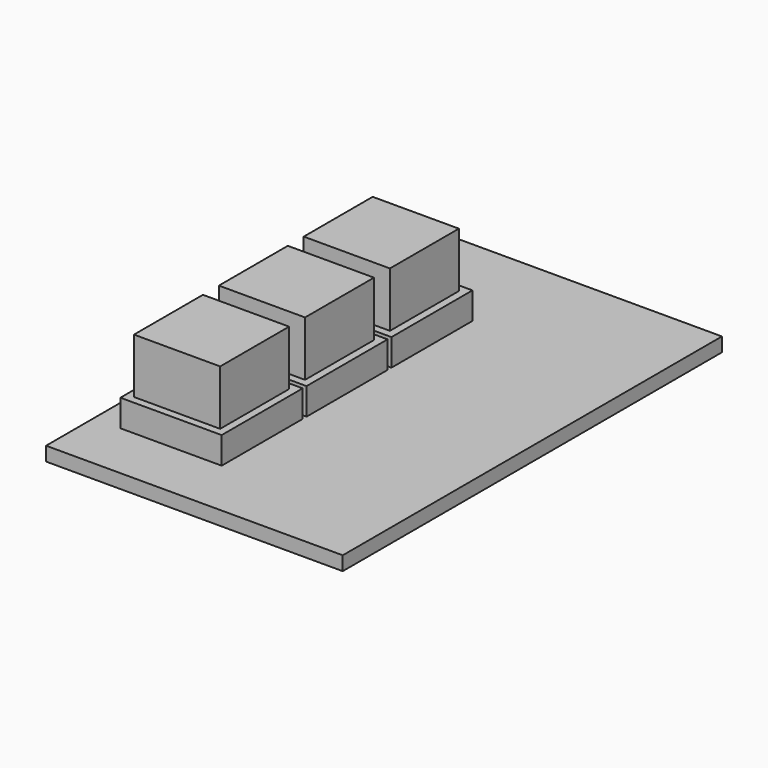
from build123d import *

# Parameters (mm, degrees)
F0_W     = 34.9758
F0_H     = 55.88
F0_W_2   = 11.938
F0_H_2   = 11.938
F0_W_3   = 10.16
F0_H_3   = 10.16
F1_DEPTH = 1.651
F2_DEPTH = 3.175
F3_DEPTH = 9.652
F5_R     = 3.81
F6_DEPTH = 8.763


with BuildPart() as f1:
    # F0 (on Top) → F1 (new body)
    with BuildSketch(Plane.XY):
        with Locations((17.4879, -27.94)):
            Rectangle(F0_W, F0_H)
        with Locations((9.144, -42.926)):
            Rectangle(F0_W_2, F0_H_2, mode=Mode.SUBTRACT)
        with Locations((9.144, -30.4165)):
            Rectangle(F0_W_2, F0_H_2, mode=Mode.SUBTRACT)
        with Locations((9.144, -17.907)):
            Rectangle(F0_W_2, F0_H_2, mode=Mode.SUBTRACT)
        with Locations((9.144, -42.926)):
            Rectangle(F0_W_2, F0_H_2)
        with Locations((9.144, -42.926)):
            Rectangle(F0_W_3, F0_H_3, mode=Mode.SUBTRACT)
        with Locations((9.144, -17.907)):
            Rectangle(F0_W_2, F0_H_2)
        with Locations((9.144, -17.907)):
            Rectangle(F0_W_3, F0_H_3, mode=Mode.SUBTRACT)
        with Locations((9.144, -30.4165)):
            Rectangle(F0_W_2, F0_H_2)
        with Locations((9.144, -30.4165)):
            Rectangle(F0_W_3, F0_H_3, mode=Mode.SUBTRACT)
        with Locations((9.144, -30.4165)):
            Rectangle(F0_W_3, F0_H_3)
        with Locations((9.144, -17.907)):
            Rectangle(F0_W_3, F0_H_3)
        with Locations((9.144, -42.926)):
            Rectangle(F0_W_3, F0_H_3)
    extrude(amount=-F1_DEPTH)

    # F5 (on offset) → F6 (join)
    with BuildSketch(Plane.XZ.offset(20.32)):
        with Locations((21.9449549913, -5.461)):
            Circle(F5_R)
    extrude(amount=F6_DEPTH)


with BuildPart() as f2:
    # F0 (on Top) → F2 (new body)
    with BuildSketch(Plane.XY):
        with Locations((9.144, -17.907)):
            Rectangle(F0_W_2, F0_H_2)
        with Locations((9.144, -17.907)):
            Rectangle(F0_W_3, F0_H_3, mode=Mode.SUBTRACT)
        with Locations((9.144, -17.907)):
            Rectangle(F0_W_3, F0_H_3)
    extrude(amount=F2_DEPTH)


with BuildPart() as f2b:
    # F0 (on Top) → F2, piece 2 (new body)
    with BuildSketch(Plane.XY):
        with Locations((9.144, -30.4165)):
            Rectangle(F0_W_2, F0_H_2)
        with Locations((9.144, -30.4165)):
            Rectangle(F0_W_3, F0_H_3, mode=Mode.SUBTRACT)
        with Locations((9.144, -30.4165)):
            Rectangle(F0_W_3, F0_H_3)
    extrude(amount=F2_DEPTH)


with BuildPart() as f2c:
    # F0 (on Top) → F2, piece 3 (new body)
    with BuildSketch(Plane.XY):
        with Locations((9.144, -42.926)):
            Rectangle(F0_W_2, F0_H_2)
        with Locations((9.144, -42.926)):
            Rectangle(F0_W_3, F0_H_3, mode=Mode.SUBTRACT)
        with Locations((9.144, -42.926)):
            Rectangle(F0_W_3, F0_H_3)
    extrude(amount=F2_DEPTH)


with BuildPart() as f3:
    # F0 (on Top) → F3 (new body)
    with BuildSketch(Plane.XY):
        with Locations((9.144, -17.907)):
            Rectangle(F0_W_3, F0_H_3)
    extrude(amount=F3_DEPTH)


with BuildPart() as f3b:
    # F0 (on Top) → F3, piece 2 (new body)
    with BuildSketch(Plane.XY):
        with Locations((9.144, -30.4165)):
            Rectangle(F0_W_3, F0_H_3)
    extrude(amount=F3_DEPTH)


with BuildPart() as f3c:
    # F0 (on Top) → F3, piece 3 (new body)
    with BuildSketch(Plane.XY):
        with Locations((9.144, -42.926)):
            Rectangle(F0_W_3, F0_H_3)
    extrude(amount=F3_DEPTH)


solid = Compound([f1.part, f2.part, f2b.part, f2c.part, f3.part, f3b.part, f3c.part])
